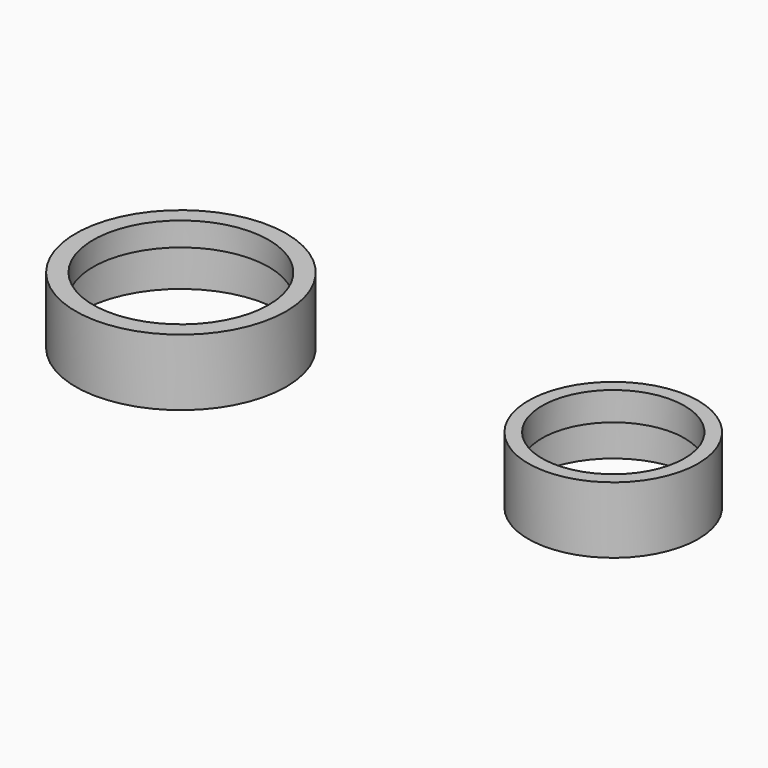
from build123d import *

# Parameters (mm, degrees)
F0_R     = 22.175
F0_R_2   = 21
F1_DEPTH = 9
F0_R_3   = 17.9
F0_R_4   = 17.5
F2_DEPTH = 8
F3_R     = 22.175
F3_R_2   = 21
F3_R_3   = 18.5
F4_DEPTH = 5
F5_R     = 17.9
F5_R_2   = 15
F6_DEPTH = 6


with BuildPart() as f1:
    # F0 (on Top) → F1 (new body)
    with BuildSketch(Plane.XY):
        with Locations((-47.0174653526, 0)):
            Circle(F0_R)
        with Locations((-47.0174653526, 0)):
            Circle(F0_R_2, mode=Mode.SUBTRACT)
    extrude(amount=F1_DEPTH)

    # F3 (on face) → F4 (join)
    with BuildSketch(Plane.XY.offset(9)):
        with Locations((-47.0174653526, 0)):
            Circle(F3_R)
        with Locations((-47.0174653526, 0)):
            Circle(F3_R_2, mode=Mode.SUBTRACT)
        with Locations((-47.0174653526, 0)):
            Circle(F3_R_2)
        with Locations((-47.0174653526, 0)):
            Circle(F3_R_3, mode=Mode.SUBTRACT)
    extrude(amount=F4_DEPTH)


with BuildPart() as f2:
    # F0 (on Top) → F2 (new body)
    with BuildSketch(Plane.XY):
        with Locations((44.0234315433, 0)):
            Circle(F0_R_3)
        with Locations((44.0234315433, 0)):
            Circle(F0_R_4, mode=Mode.SUBTRACT)
    extrude(amount=F2_DEPTH)

    # F5 (on face) → F6 (join)
    with BuildSketch(Plane.XY.offset(8)):
        with Locations((44.0234315433, 0)):
            Circle(F5_R)
        with Locations((44.0234315433, 0)):
            Circle(F5_R_2, mode=Mode.SUBTRACT)
    extrude(amount=F6_DEPTH)


solid = Compound([f1.part, f2.part])
